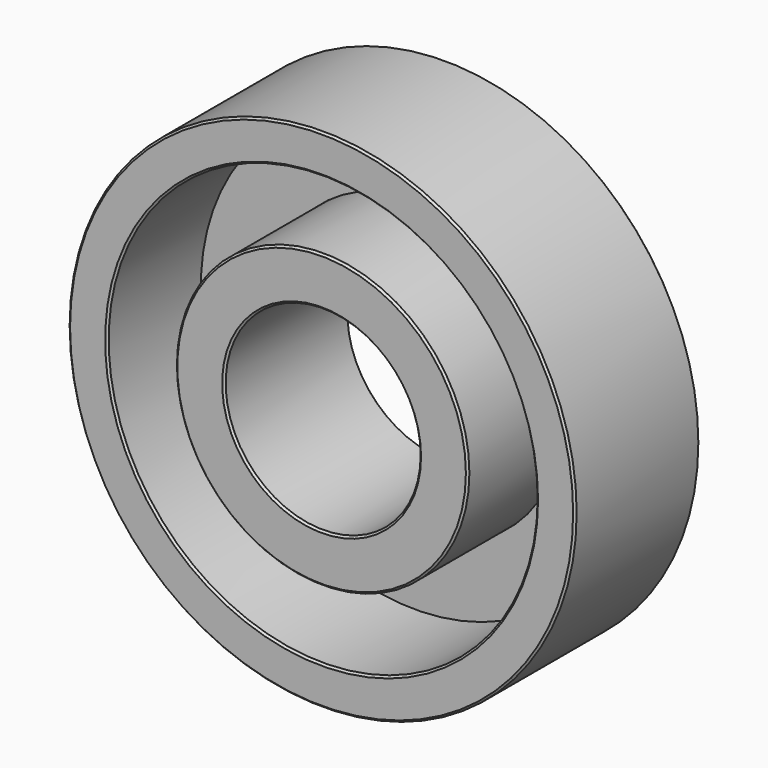
from build123d import *

# Parameters (mm, degrees)
F0_R      = 13
F0_R_2    = 11
F2_DEPTH  = 8
F1_R      = 7.5
F1_R_2    = 5
F3_DEPTH  = 8
F4_SIZE   = 0.1
F4_2_SIZE = 0.1
F5_R      = 10.995
F5_R_2    = 7.505
F6_DEPTH  = 2


with BuildPart() as f2:
    # F0 (on Front) → F2 (new body)
    with BuildSketch(Plane.XZ):
        Circle(F0_R)
        Circle(F0_R_2, mode=Mode.SUBTRACT)
    extrude(amount=F2_DEPTH)

    # F4
    f4_edges = [f2.edges().sort_by_distance(p)[0] for p in [
        (-13, 0, 0),
        (-11, 0, 0),
        (-13, -8, 0),
        (-11, -8, 0),
    ]]
    chamfer(f4_edges, length=F4_SIZE)


with BuildPart() as f3:
    # F1 (on Front) → F3 (new body)
    with BuildSketch(Plane.XZ):
        Circle(F1_R)
        Circle(F1_R_2, mode=Mode.SUBTRACT)
    extrude(amount=F3_DEPTH)

    # F4#2
    f4_2_edges = [f3.edges().sort_by_distance(p)[0] for p in [
        (-7.5, 0, 0),
        (-5, 0, 0),
        (-7.5, -8, 0),
        (-5, -8, 0),
    ]]
    chamfer(f4_2_edges, length=F4_2_SIZE)


with BuildPart() as f6:
    # F5 (on Front) → F6 (new body)
    with BuildSketch(Plane.XZ):
        Circle(F5_R)
        Circle(F5_R_2, mode=Mode.SUBTRACT)
    extrude(amount=F6_DEPTH)


solid = Compound([f2.part, f3.part, f6.part])
